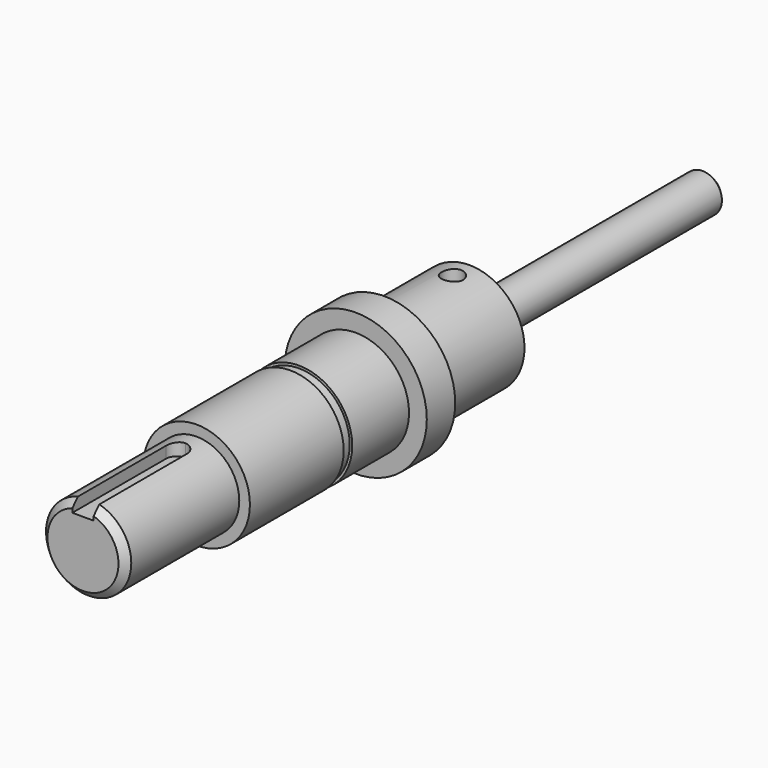
from build123d import *

# Parameters (mm, degrees)
F0_R      = 10
F1_DEPTH  = 2.5
F2_R      = 7.5
F3_DEPTH  = 10
F4_R      = 7.15
F5_DEPTH  = 1.5
F6_R      = 7.5
F7_DEPTH  = 16.5
F8_R      = 6
F9_DEPTH  = 20
F10_SIZE  = 1
F11_R     = 7.75
F12_DEPTH = 15
F13_R     = 2.75
F14_DEPTH = 42
F15_SIZE  = 1
F16_R     = 1.5
F17_DEPTH = 12.5
F19_DEPTH = 6
F20_DEPTH = 4.2


with BuildPart() as f1:
    # F0 (on Front) → F1 (new body, symmetric)
    with BuildSketch(Plane.XZ):
        Circle(F0_R)
    extrude(amount=F1_DEPTH, both=True)

    # F2 (on face) → F3 (join)
    with BuildSketch(Plane.XZ.offset(2.5)):
        Circle(F2_R)
    extrude(amount=F3_DEPTH)

    # F4 (on face) → F5 (join)
    with BuildSketch(Plane.XZ.offset(12.5)):
        Circle(F4_R)
    extrude(amount=F5_DEPTH)

    # F6 (on face) → F7 (join)
    with BuildSketch(Plane.XZ.offset(14)):
        Circle(F6_R)
    extrude(amount=F7_DEPTH)

    # F8 (on face) → F9 (join)
    with BuildSketch(Plane.XZ.offset(30.5)):
        Circle(F8_R)
    extrude(amount=F9_DEPTH)

    # F10
    f10_edges = [f1.edges().sort_by_distance(p)[0] for p in [
        (-6, -50.5, 0),
    ]]
    chamfer(f10_edges, length=F10_SIZE)

    # F11 (on face) → F12 (join)
    with BuildSketch(Plane(origin=(0, 2.5, 0), x_dir=(-1, 0, 0), z_dir=(0, 1, 0))):
        Circle(F11_R)
    extrude(amount=F12_DEPTH)

    # F13 (on face) → F14 (join)
    with BuildSketch(Plane(origin=(0, 17.5, 0), x_dir=(-1, 0, 0), z_dir=(0, 1, 0))):
        Circle(F13_R)
    extrude(amount=F14_DEPTH)

    # F15
    f15_edges = [f1.edges().sort_by_distance(p)[0] for p in [
        (2.75, 59.5, 0),
    ]]
    chamfer(f15_edges, length=F15_SIZE)

    # F16 (on Top) → F17 (cut, symmetric)
    with BuildSketch(Plane.XY):
        with Locations((0, 14.5)):
            Circle(F16_R)
    extrude(amount=F17_DEPTH, both=True, mode=Mode.SUBTRACT)

    # F18 (on Top) → F19 (cut)
    with BuildSketch(Plane.XY):
        with BuildLine():
            Line((-1.5, -34), (-1.5, -50.5))
            Line((-1.5, -50.5), (1.5, -50.5))
            Line((1.5, -50.5), (1.5, -34))
            ThreePointArc((1.5, -34), (1.06066, -32.93934), (0, -32.5))
            ThreePointArc((0, -32.5), (-1.06066, -32.93934), (-1.5, -34))
        make_face()
    extrude(amount=F19_DEPTH, mode=Mode.SUBTRACT)

    # F18 (on Top) → F20 (join)
    with BuildSketch(Plane.XY):
        with BuildLine():
            Line((-1.5, -34), (-1.5, -50.5))
            Line((-1.5, -50.5), (1.5, -50.5))
            Line((1.5, -50.5), (1.5, -34))
            ThreePointArc((1.5, -34), (1.06066, -32.93934), (0, -32.5))
            ThreePointArc((0, -32.5), (-1.06066, -32.93934), (-1.5, -34))
        make_face()
    extrude(amount=F20_DEPTH)


solid = f1.part
